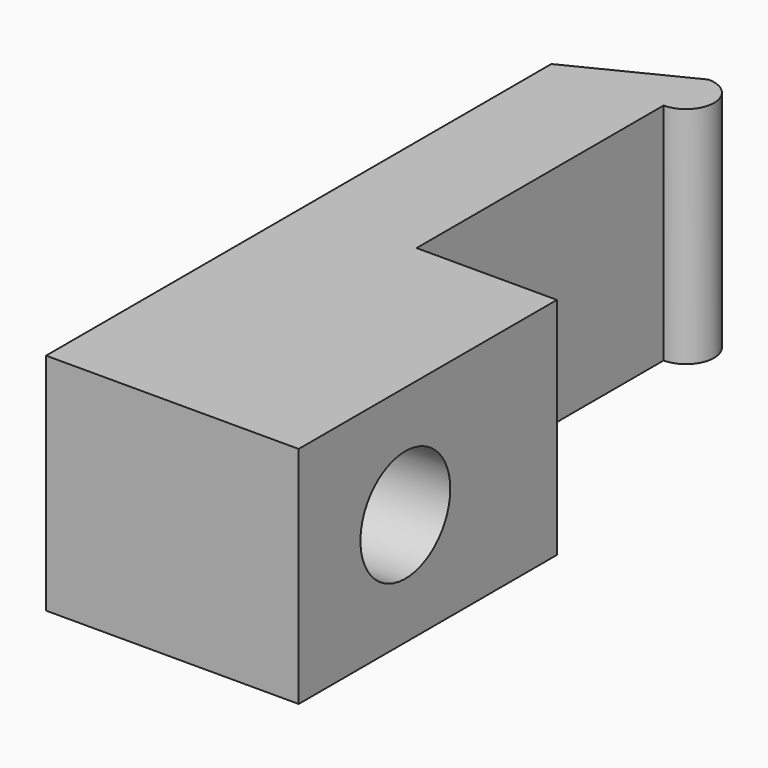
from build123d import *

# Parameters (mm, degrees)
PAD_DEPTH       = 8
SKETCH001_R     = 2
POCKET_DEPTH    = 9
SKETCH002_R     = 3.5
POCKET001_DEPTH = 5


with BuildPart() as part:
    # Sketch → Pad (new body)
    with BuildSketch(Plane.XY):
        with BuildLine():
            Line((0, 0), (0, 22.5))
            Line((0, 22.5), (4, 24.5))
            ThreePointArc((4, 22.5), (5, 23.5), (4, 24.5))
            Line((4, 22.5), (4, 11.5))
            Line((9, 11.5), (4, 11.5))
            Line((9, 0), (9, 11.5))
            Line((0, 0), (9, 0))
        make_face()
    extrude(amount=PAD_DEPTH)

    # Sketch001 (on Face6 of Pad) → Pocket (cut)
    with BuildSketch(Plane.YZ.offset(9)):
        with Locations((4.75, 4)):
            Circle(SKETCH001_R)
    extrude(amount=-POCKET_DEPTH, mode=Mode.SUBTRACT)

    # Sketch002 (on Face1 of Pocket) → Pocket001 (cut)
    with BuildSketch(Plane(origin=(0, 0, 0), x_dir=(0, -1, 0), z_dir=(-1, 0, 0))):
        with Locations((-4.75, 4)):
            Circle(SKETCH002_R)
    extrude(amount=-POCKET001_DEPTH, mode=Mode.SUBTRACT)


solid = part.part
